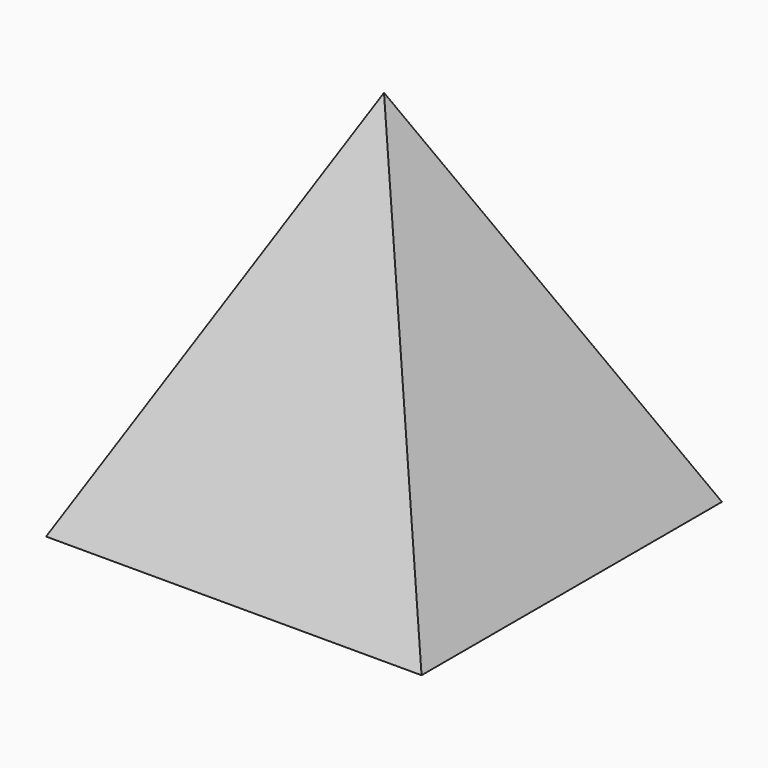
from build123d import *

# Parameters (mm, degrees)
F0_W      = 254
F0_H      = 254
F1_DEPTH  = 254
F6_DEPTH  = 254
F8_DEPTH  = 254
F4_DEPTH  = 254.000008
F10_DEPTH = 254


with BuildPart() as f1:
    # F0 (on Front) → F1 (new body)
    with BuildSketch(Plane.XZ):
        with Locations((127, 127)):
            Rectangle(F0_W, F0_H)
    extrude(amount=F1_DEPTH)

    # F2 (on Front) → F6 (cut, through all)
    with BuildSketch(Plane.XZ):
        Polygon((0, 0), (127, 254), (0, 254), align=None)
    extrude(amount=F6_DEPTH, mode=Mode.SUBTRACT)

    # F7 (on Front) → F8 (cut, through all)
    with BuildSketch(Plane.XZ):
        Polygon((254, 254), (127, 254), (254, 0), align=None)
    extrude(amount=F8_DEPTH, mode=Mode.SUBTRACT)

    # F9 (on Right) → F4 (cut)
    with BuildSketch(Plane.YZ):
        Polygon((-254, 254), (-254, 0), (-127, 254), align=None)
    extrude(amount=F4_DEPTH, mode=Mode.SUBTRACT)

    # F5 (on Right) → F10 (cut)
    with BuildSketch(Plane.YZ):
        Polygon((0, 254), (-127, 254), (0, 0), align=None)
    extrude(amount=F10_DEPTH, mode=Mode.SUBTRACT)


solid = f1.part
